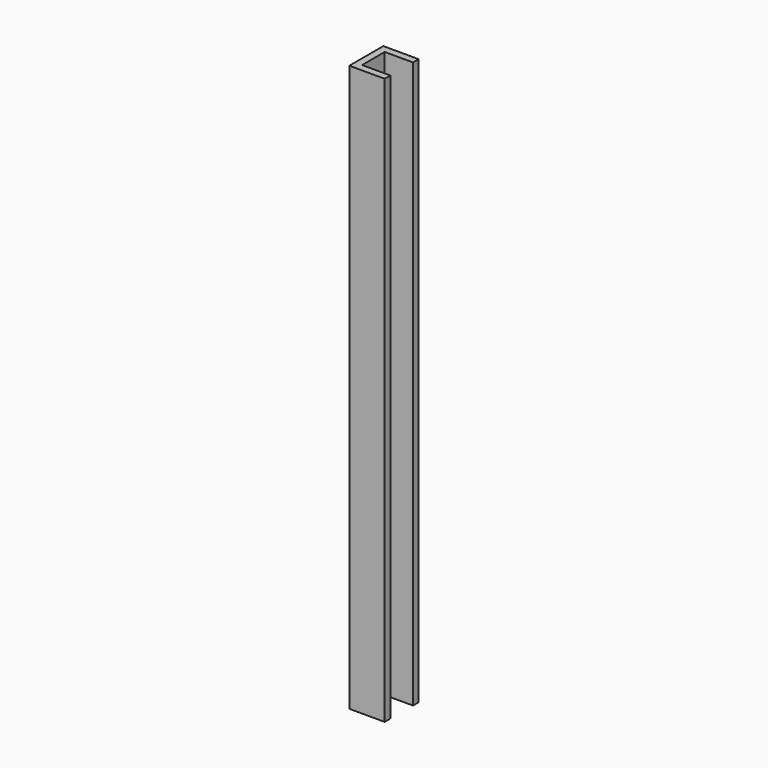
from build123d import *

# Parameters (mm, degrees)
F1_DEPTH = 127


with BuildPart() as f1:
    # F0 (on Top) → F1 (new body, symmetric)
    with BuildSketch(Plane.XY):
        Polygon((6.35, 6.35), (6.35, 9.525), (-9.525, 9.525), (-9.525, -9.525), (6.35, -9.525), (6.35, -6.35), (-6.35, -6.35), (-6.35, 6.35), align=None)
    extrude(amount=F1_DEPTH, both=True)


solid = f1.part
